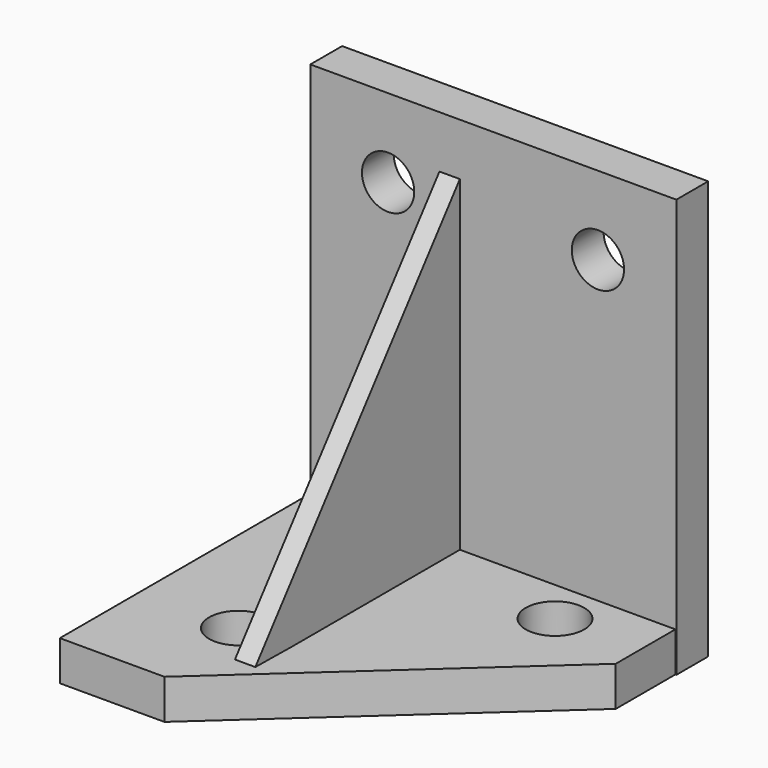
from build123d import *

# Parameters (mm, degrees)
F0_R     = 7.112
F1_DEPTH = 9.652
F3_DEPTH = 2.47735
F4_W     = 88.9
F4_H     = 101.6
F4_R     = 6.35
F5_DEPTH = 9.652


with BuildPart() as f1:
    # F0 (on Top) → F1 (new body)
    with BuildSketch(Plane.XY):
        Polygon((54.822839, 34.332216), (-34.077161, 33.680932), (-34.077161, -41.867784), (-8.677161, -41.867784), (54.822839, 15.770677), align=None)
        with Locations((-10.201161, -17.488004)):
            Circle(F0_R, mode=Mode.SUBTRACT)
        with Locations((-10.201161, 20.611996)):
            Circle(F0_R, mode=Mode.SUBTRACT)
        with Locations((34.248839, 23.049973)):
            Circle(F0_R, mode=Mode.SUBTRACT)
    extrude(amount=F1_DEPTH)

    # F2 (on Right) → F3 (join, symmetric)
    with BuildSketch(Plane.YZ):
        Polygon((33.87592, 8.95272), (33.87592, 88.9), (-28.20982, 9.804583), align=None)
    extrude(amount=F3_DEPTH, both=True)

    # F4 (on face) → F5 (join)
    with BuildSketch(Plane(origin=(0, 33.87592, 0), x_dir=(-1, 0, 0), z_dir=(0, 1, 0))):
        with Locations((-10.612122, 50.8)):
            Rectangle(F4_W, F4_H)
        with Locations((-36.012122, 82.55)):
            Circle(F4_R, mode=Mode.SUBTRACT)
        with Locations((14.944623, 82.55)):
            Circle(F4_R, mode=Mode.SUBTRACT)
    extrude(amount=F5_DEPTH)


solid = f1.part
